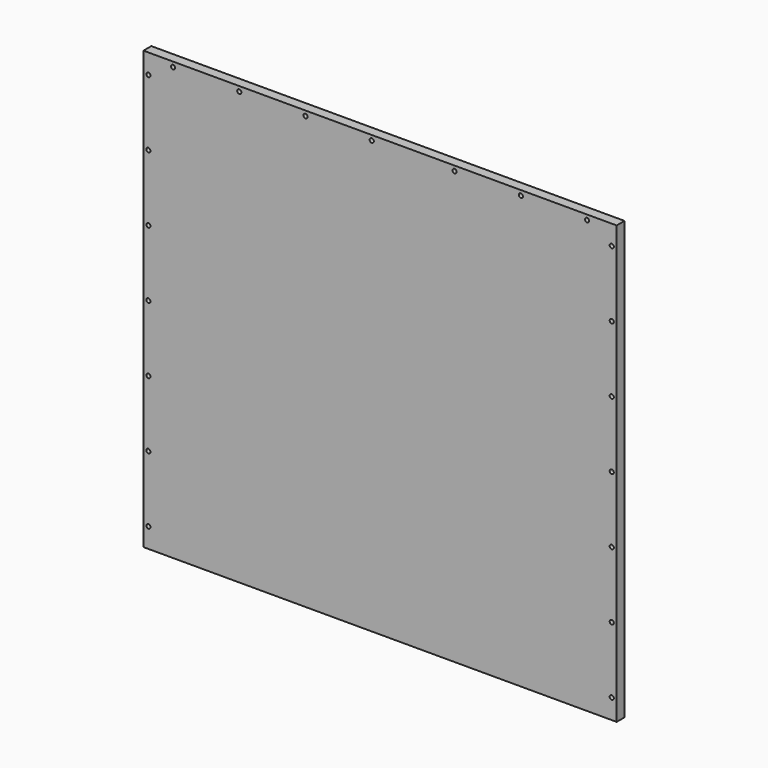
from build123d import *

# Parameters (mm, degrees)
F0_W     = 914.4
F0_H     = 844.55
F1_DEPTH = 19.05
F3_D     = 8.001
F3_DEPTH = 12.7
F3_TIP   = 2.4037429064


with BuildPart() as f1:
    # F0 (on Front) → F1 (new body)
    with BuildSketch(Plane.XZ):
        Rectangle(F0_W, F0_H)
    extrude(amount=-F1_DEPTH)

    # F3
    with Locations(Plane.XZ):
        with Locations((-447.675, -383.82956), (-447.675, -255.8288), (-447.675, -127.82804), (-447.675, 0.17272), (-447.675, 128.17348), (-447.675, 256.17424), (-447.675, 384.175), (-400.05, 412.75), (-272.04924, 412.75), (-144.04848, 412.75), (-16.04772, 412.75), (144.04848, 412.75), (272.04924, 412.75), (400.05, 412.75), (447.675, 384.175), (447.675, 256.17424), (447.675, 128.17348), (447.675, 0.17272), (447.675, -127.82804), (447.675, -255.8288), (447.675, -383.82956)):
            Hole(F3_D / 2, depth=F3_DEPTH)
            with Locations((0, 0, -(F3_DEPTH + F3_TIP / 2))):  # 118° drill point
                Cone(0, F3_D / 2, F3_TIP, mode=Mode.SUBTRACT)


solid = f1.part
